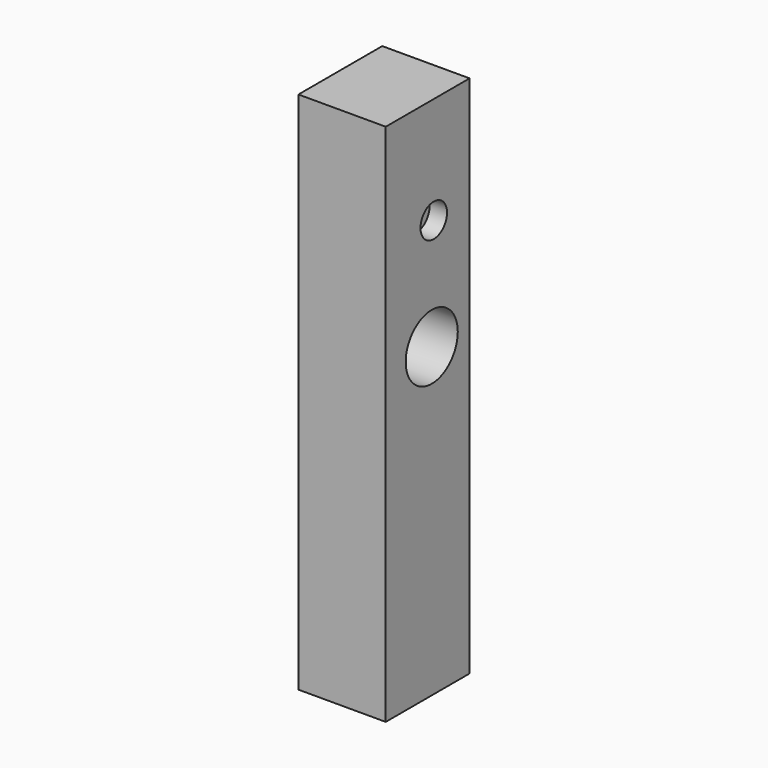
from build123d import *

# Parameters (mm, degrees)
F0_W     = 5
F0_H     = 30
F1_DEPTH = 6
F2_R     = 0.948442
F3_DEPTH = 1
F4_R     = 1.863501
F5_DEPTH = 5.001


with BuildPart() as f1:
    # F0 (on Front) → F1 (new body)
    with BuildSketch(Plane.XZ):
        with Locations((2.5, 0)):
            Rectangle(F0_W, F0_H)
    extrude(amount=F1_DEPTH)

    # F2 (on face) → F3 (cut)
    with BuildSketch(Plane.YZ.offset(5)):
        with Locations((-2.562478, 8.886208)):
            Circle(F2_R)
    extrude(amount=-F3_DEPTH, mode=Mode.SUBTRACT)

    # F4 (on face) → F5 (cut, through all)
    with BuildSketch(Plane.YZ.offset(5)):
        with Locations((-2.708179, 2.568147)):
            Circle(F4_R)
    extrude(amount=-F5_DEPTH, mode=Mode.SUBTRACT)


solid = f1.part
